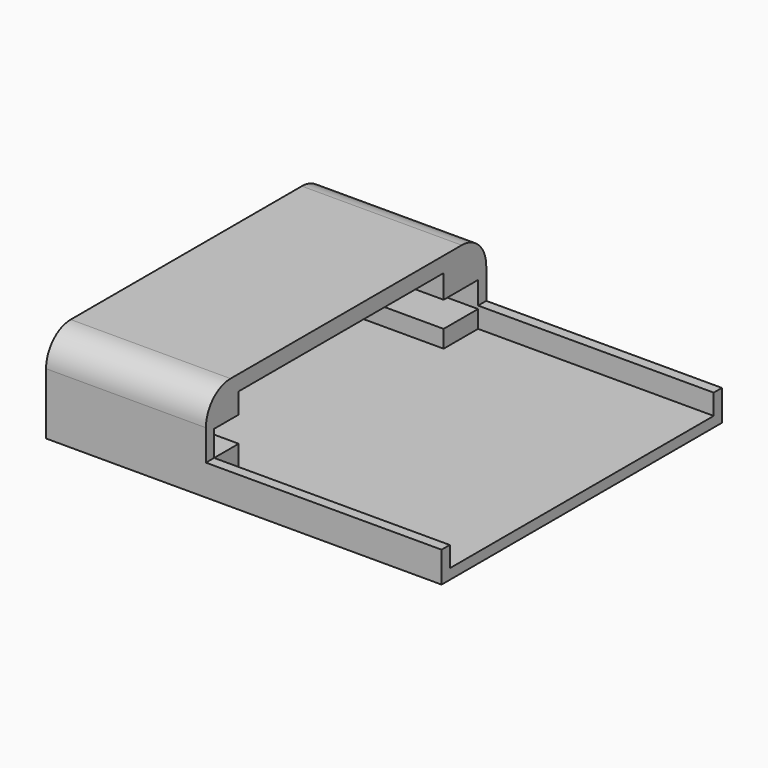
from build123d import *

# Parameters (mm, degrees)
PAD_DEPTH       = 38.6
POCKET_DEPTH    = 16
POCKET001_DEPTH = 23
SKETCH003_W     = 39.120222
SKETCH003_H     = 14.384815
POCKET002_DEPTH = 23


with BuildPart() as part:
    # Sketch → Pad (new body)
    with BuildSketch(Plane.YZ):
        with BuildLine():
            Line((0, 0), (34.2, 0))
            Line((34.2, 0), (34.2, 6))
            ThreePointArc((34.2, 6), (33.32132, 8.12132), (31.2, 9))
            Line((31.2, 9), (3, 9))
            ThreePointArc((3, 9), (0.87868, 8.12132), (0, 6))
            Line((0, 6), (0, 0))
        make_face()
    extrude(amount=PAD_DEPTH)

    # Sketch001 (on Face7 of Pad) → Pocket (cut)
    with BuildSketch(Plane(origin=(0, 0, 0), x_dir=(0, 1, 0), z_dir=(-1, 0, 0))):
        Polygon((4, -3), (4, -1), (29, -1), (29, -2.704358), (33.2, -2.704358), (33.2, -5.204358), (29, -5.204358), (29, -7.5), (4, -7.5), (4, -5.5), (1, -5.5), (1, -3), align=None)
    extrude(amount=-POCKET_DEPTH, mode=Mode.SUBTRACT)

    # Sketch002 (on Face5 of Pocket) → Pocket001 (cut)
    with BuildSketch(Plane.YZ.offset(38.6)):
        with BuildLine():
            Line((1, 1), (33.2, 1))
            Line((33.2, 1), (33.2, 6))
            ThreePointArc((33.2, 6), (32.32132, 8.12132), (30.2, 9))
            Line((30.2, 9), (4, 9))
            ThreePointArc((4, 9), (1.87868, 8.12132), (1, 6))
            Line((1, 6), (1, 1))
        make_face()
    extrude(amount=-POCKET001_DEPTH, mode=Mode.SUBTRACT)

    # Sketch003 (on Face5 of Pocket001) → Pocket002 (cut)
    with BuildSketch(Plane.YZ.offset(38.6)):
        with Locations((18.894067, 10.192407)):
            Rectangle(SKETCH003_W, SKETCH003_H)
    extrude(amount=-POCKET002_DEPTH, mode=Mode.SUBTRACT)


solid = part.part
